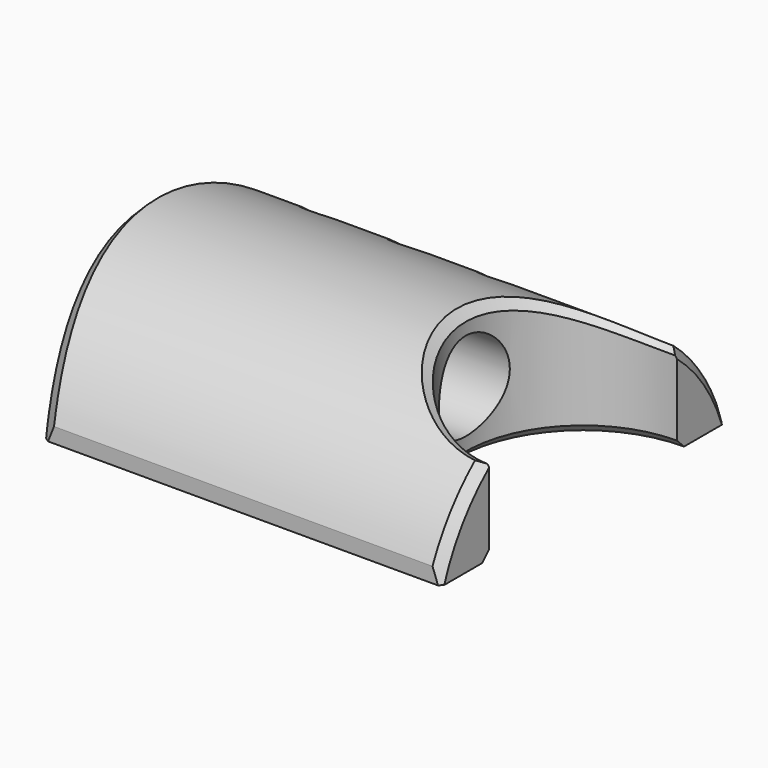
from build123d import *

# Parameters (mm, degrees)
PAD_DEPTH         = 15
SKETCH001_R       = 5
POCKET_DEPTH      = 35.001
POCKET_DEPTH_BACK = -14.001
SKETCH002_R       = 33.208943
SKETCH002_R_2     = 21.759288
POCKET001_DEPTH   = 49.001
CHAMFER_SIZE      = 1
CHAMFER001_SIZE   = 1
CHAMFER002_SIZE   = 1
CHAMFER003_SIZE   = 1
CHAMFER004_SIZE   = 1
CHAMFER005_SIZE   = 1
SKETCH003_R       = 2.5
POCKET002_DEPTH   = 14.891106


with BuildPart() as part:
    # Sketch → Pad (new body)
    with BuildSketch(Plane.XY):
        with BuildLine():
            ThreePointArc((0, 13.25), (-13.25, 0), (0, -13.25))
            Line((0, -20), (0, -13.25))
            Line((0, -20), (-44.732538, -20))
            ThreePointArc((-44.732538, 20), (-49, 0), (-44.732538, -20))
            Line((-44.732538, 20), (0, 20))
            Line((0, 13.25), (0, 20))
        make_face()
    extrude(amount=PAD_DEPTH)

    # Sketch001 → Pocket (cut, two sides)
    with BuildSketch(Plane.YZ.offset(-14)) as pocket_sk:
        with Locations((0, 7.5)):
            Circle(SKETCH001_R)
    extrude(amount=-POCKET_DEPTH, mode=Mode.SUBTRACT)
    extrude(pocket_sk.sketch, amount=-POCKET_DEPTH_BACK, mode=Mode.SUBTRACT)

    # Sketch002 → Pocket001 (cut, through all)
    with BuildSketch(Plane.YZ):
        with Locations((0, -6.869182)):
            Circle(SKETCH002_R)
        with Locations((0, -6.869182)):
            Circle(SKETCH002_R_2, mode=Mode.SUBTRACT)
    extrude(amount=-POCKET001_DEPTH, mode=Mode.SUBTRACT)

    # Chamfer
    chamfer_edges = [part.edges().sort_by_distance(p)[0] for p in [
        (-48.74423, -5, 7.5),
    ]]
    chamfer(chamfer_edges, length=CHAMFER_SIZE)

    # Chamfer001
    chamfer001_edges = [part.edges().sort_by_distance(p)[0] for p in [
        (-13.25, 0, 0),
    ]]
    chamfer(chamfer001_edges, length=CHAMFER001_SIZE)

    # Chamfer002
    chamfer002_edges = [part.edges().sort_by_distance(p)[0] for p in [
        (-49, 0, 14.890106),
    ]]
    chamfer(chamfer002_edges, length=CHAMFER002_SIZE)

    # Chamfer003
    chamfer003_edges = [part.edges().sort_by_distance(p)[0] for p in [
        (-13.25, 0, 14.890106),
    ]]
    chamfer(chamfer003_edges, length=CHAMFER003_SIZE)

    # Chamfer004
    chamfer004_edges = [part.edges().sort_by_distance(p)[0] for p in [
        (0, -17.48534, 6.081861),
    ]]
    chamfer(chamfer004_edges, length=CHAMFER004_SIZE)

    # Chamfer005
    chamfer005_edges = [part.edges().sort_by_distance(p)[0] for p in [
        (0, 17.485451, 6.081711),
    ]]
    chamfer(chamfer005_edges, length=CHAMFER005_SIZE)

    # Sketch003 → Pocket002 (cut, through all)
    with BuildSketch(Plane.XY):
        with Locations((-39.280674, 13)):
            Circle(SKETCH003_R)
        with Locations((-29.289505, 12.861062)):
            Circle(SKETCH003_R)
        with Locations((-19.338224, 13.079773)):
            Circle(SKETCH003_R)
    extrude(amount=POCKET002_DEPTH, mode=Mode.SUBTRACT)


solid = part.part
